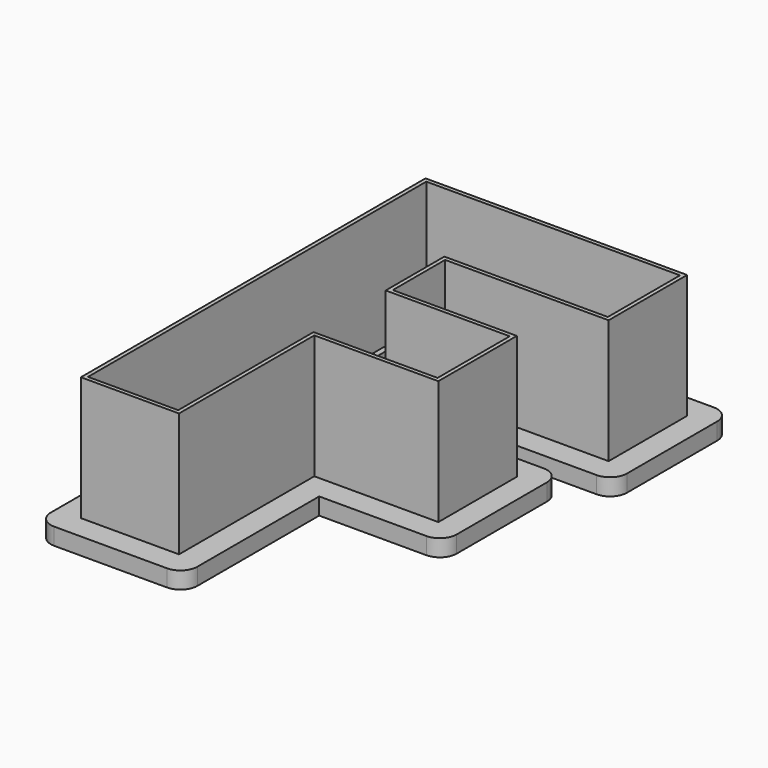
from build123d import *

# Parameters (mm, degrees)
F1_DEPTH = 3
F2_DEPTH = 25
F3_R     = 3


with BuildPart() as f1:
    # F0 (on Top) → F1 (new body)
    with BuildSketch(Plane.XY):
        Polygon((-21, -35), (5, -35), (5, -5), (27, -5), (27, 21), (5, 21), (5, 24), (34, 24), (34, 50), (-21, 50), align=None)
        Polygon((-16.7, 45.7), (29.7, 45.7), (29.7, 28.3), (0.7, 28.3), (0.7, 16.7), (22.7, 16.7), (22.7, -0.7), (0.7, -0.7), (0.7, -30.7), (-16.7, -30.7), align=None, mode=Mode.SUBTRACT)
        Polygon((29.7, 28.3), (29.7, 45.7), (-16.7, 45.7), (-16.7, -30.7), (0.7, -30.7), (0.7, -0.7), (22.7, -0.7), (22.7, 16.7), (0.7, 16.7), (0.7, 28.3), align=None)
        Polygon((22, 0), (0, 0), (0, -30), (-16, -30), (-16, 45), (29, 45), (29, 29), (0, 29), (0, 16), (22, 16), align=None, mode=Mode.SUBTRACT)
        Polygon((0, -30), (0, 0), (22, 0), (22, 16), (0, 16), (0, 29), (29, 29), (29, 45), (-16, 45), (-16, -30), align=None)
        Polygon((21, 1), (-1, 1), (-1, -29), (-15, -29), (-15, 44), (28, 44), (28, 30), (-1, 30), (-1, 15), (21, 15), align=None, mode=Mode.SUBTRACT)
    extrude(amount=F1_DEPTH)

    # F0 (on Top) → F2 (join)
    with BuildSketch(Plane.XY):
        Polygon((29.7, 28.3), (29.7, 45.7), (-16.7, 45.7), (-16.7, -30.7), (0.7, -30.7), (0.7, -0.7), (22.7, -0.7), (22.7, 16.7), (0.7, 16.7), (0.7, 28.3), align=None)
        Polygon((22, 0), (0, 0), (0, -30), (-16, -30), (-16, 45), (29, 45), (29, 29), (0, 29), (0, 16), (22, 16), align=None, mode=Mode.SUBTRACT)
    extrude(amount=F2_DEPTH)

    # F3
    f3_edges = [f1.edges().sort_by_distance(p)[0] for p in [
        (27, 21, 1.5),
        (-1, 15, 1.5),
        (27, -5, 1.5),
        (5, -35, 1.5),
        (-21, -35, 1.5),
        (-21, 50, 1.5),
        (34, 24, 1.5),
        (34, 50, 1.5),
        (-1, 30, 1.5),
        (-1, 1, 1.5),
        (-1, -29, 1.5),
        (-15, -29, 1.5),
        (21, 1, 1.5),
        (21, 15, 1.5),
        (28, 30, 1.5),
        (28, 44, 1.5),
        (-15, 44, 1.5),
    ]]
    fillet(f3_edges, radius=F3_R)


solid = f1.part
